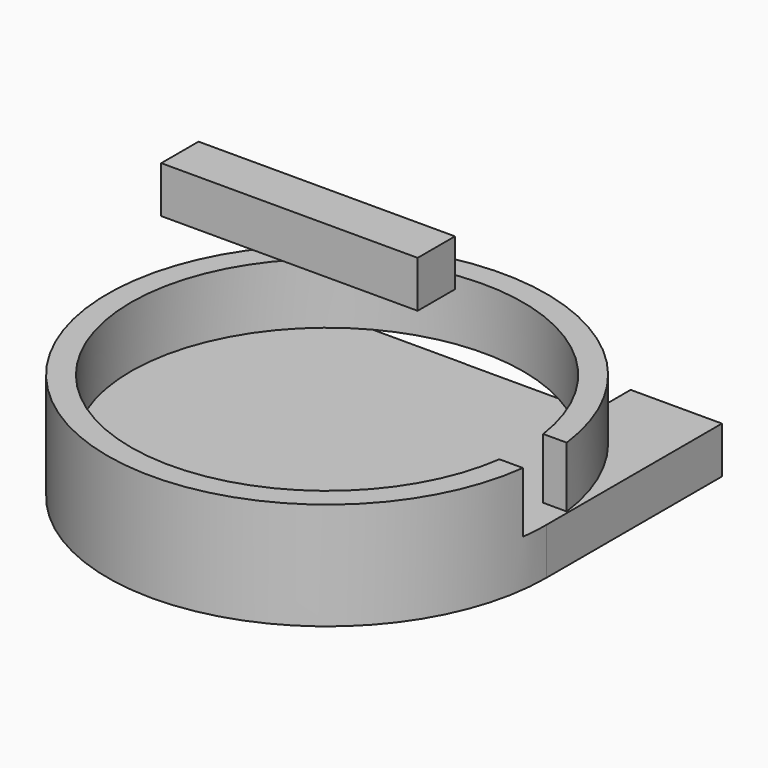
from build123d import *

# Parameters (mm, degrees)
F0_W       = 55
F0_H       = 10
F0_W_2     = 10
F0_H_2     = 2
F1_DEPTH   = 10
F3_DEPTH   = 5
F2_W       = 5
F2_H       = 13
F4_ANGLE   = 180
F5_DEPTH   = 47.075
F6_ANGLE   = 90
F7_W       = 27.5
F7_H       = 10
F8_DEPTH   = 10
F10_DEPTH  = 47.025
F11_DEPTH  = 37.025
F10_FACE_W = 5
F10_FACE_H = 13
F12_ANGLE  = 90
F14_DEPTH  = 13


with BuildPart() as f1:
    # F0 (on Front) → F1 (new body)
    with BuildSketch(Plane.XZ):
        with Locations((-0.0686085224, 43.0809994042)):
            Rectangle(F0_W, F0_H)
        with Locations((-17.5686085224, 42.8309994042)):
            Rectangle(F0_W_2, F0_H_2, mode=Mode.SUBTRACT)
        with Locations((-0.0686085224, 42.8309994042)):
            Rectangle(F0_W_2, F0_H_2, mode=Mode.SUBTRACT)
        with Locations((17.4313914776, 42.8309994042)):
            Rectangle(F0_W_2, F0_H_2, mode=Mode.SUBTRACT)
        with Locations((-17.5686085224, 42.8309994042)):
            Rectangle(F0_W_2, F0_H_2)
        with Locations((-0.0686085224, 42.8309994042)):
            Rectangle(F0_W_2, F0_H_2)
        with Locations((17.4313914776, 42.8309994042)):
            Rectangle(F0_W_2, F0_H_2)
    extrude(amount=F1_DEPTH)

    # F0 (on Front) → F3 (join)
    with BuildSketch(Plane.XZ):
        with Locations((17.4313914776, 42.8309994042)):
            Rectangle(F0_W_2, F0_H_2)
        with Locations((-0.0686085224, 42.8309994042)):
            Rectangle(F0_W_2, F0_H_2)
        with Locations((-17.5686085224, 42.8309994042)):
            Rectangle(F0_W_2, F0_H_2)
    extrude(amount=-F3_DEPTH)


with BuildPart() as f4:
    # F2 (on Front) → F4 (revolve)
    with BuildSketch(Plane.XZ):
        with Locations((-44.575, 6.5)):
            Rectangle(F2_W, F2_H)
        Polygon((0, 0), (-42.075, 0), (-47.075, 0), (-47.075, -10), (0, -10), align=None)
    revolve(axis=Axis((0, 0, -5), (0, 0, 1)), revolution_arc=F4_ANGLE)

    # F2 (on Front) → F5 (join)
    with BuildSketch(Plane.XZ):
        Polygon((0, 0), (-42.075, 0), (-47.075, 0), (-47.075, -10), (0, -10), align=None)
    extrude(amount=-F5_DEPTH)

    # F2 (on Front) → F6 (revolve)
    with BuildSketch(Plane.XZ):
        with Locations((-44.575, 6.5)):
            Rectangle(F2_W, F2_H)
    revolve(axis=Axis((0, 0, -5), (0, 0, -1)), revolution_arc=F6_ANGLE)

    # F7 (on face) → F8 (cut)
    with BuildSketch(Plane(origin=(0, 47.075, 0), x_dir=(-1, 0, 0), z_dir=(0, 1, 0))):
        with Locations((13.75, -5)):
            Rectangle(F7_W, F7_H)
    extrude(amount=-F8_DEPTH, mode=Mode.SUBTRACT)

    # F9 (on face) → F10 (join)
    with BuildSketch(Plane(origin=(0, 0, 0), x_dir=(-1, 0, 0), z_dir=(0, 1, 0))):
        Polygon((-27.5, 0), (-42.075, 0), (-47.075, 0), (-47.075, -10), (-27.5, -10), align=None)
    extrude(amount=F10_DEPTH)

    # F11 (add): a face of the model
    f11_faces = [f4.faces().sort_by_distance(p)[0] for p in [
        (13.75, 0, -5),
    ]]
    extrude(f11_faces, amount=F11_DEPTH)

    # F10_face (on face) → F12 (revolve)
    with BuildSketch(Plane(origin=(13.75, 0, -5), x_dir=(-1, 0, 0), z_dir=(0, 1, 0))):
        with Locations((-30.825, 11.5)):
            Rectangle(F10_FACE_W, F10_FACE_H)
    revolve(axis=Axis((0, 0, -5), (0, 0, 1)), revolution_arc=F12_ANGLE)

    # F13 (on face) → F14 (cut)
    with BuildSketch(Plane.XY.offset(13)):
        with BuildLine():
            Line((46.7069587963, 5.875), (41.6628131551, 5.875))
            ThreePointArc((41.6628131551, 5.875), (41.9718267919, 2.944720827), (42.075, 0))
            ThreePointArc((42.075, 0), (41.9718267919, -2.944720827), (41.6628131551, -5.875))
            Line((41.6628131551, -5.875), (46.7069587963, -5.875))
            ThreePointArc((46.7069587963, -5.875), (46.9828996037, -2.9432583699), (47.075, 0))
            ThreePointArc((47.075, 0), (46.9828996037, 2.9432583699), (46.7069587963, 5.875))
        make_face()
    extrude(amount=-F14_DEPTH, mode=Mode.SUBTRACT)


solid = Compound([f1.part, f4.part])
